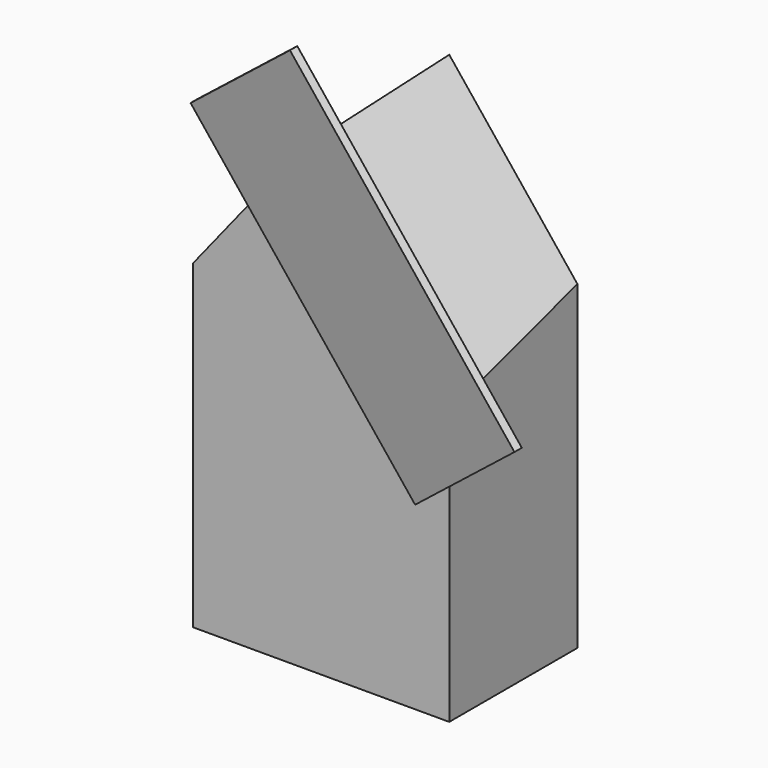
from build123d import *

# Parameters (mm, degrees)
F0_W     = 80
F0_H     = 50
F1_DEPTH = 150
F3_DEPTH = 50
F6_W     = 2.4683438241
F6_H     = 112.18418926
F7_DEPTH = 50
F8_DEPTH = 100


with BuildPart() as f1:
    # F0 (on Top) → F1 (new body)
    with BuildSketch(Plane.XY):
        Rectangle(F0_W, F0_H)
    extrude(amount=F1_DEPTH)

    # F2 (on face) → F3 (cut, through all)
    with BuildSketch(Plane.XZ.offset(25)):
        Polygon((-40, 150), (-40, 100), (0, 150), align=None)
    extrude(amount=-F3_DEPTH, mode=Mode.SUBTRACT)



with BuildPart() as f7:
    # F6 (on 3pt) → F7 (new body)
    with BuildSketch(Plane(origin=(67.1536286522, -16.1168708765, 53.7229029218), x_dir=(-0.1438373372, -0.9828884705, -0.1150698697), z_dir=(-0.7675069498, 0.184201668, -0.6140055598))):
        with Locations((29.5846741647, 82.1041800082)):
            Rectangle(F6_W, F6_H)
    extrude(amount=-F7_DEPTH)


with BuildPart() as f1_1:
    add(f1.part)
    # F8 (cut): a face of the model
    f8_faces = [f7.part.faces().sort_by_distance(p)[0] for p in [
        (30.9733670118, -48.5872943735, 129.9233466104),
    ]]
    extrude(f8_faces, amount=F8_DEPTH, mode=Mode.SUBTRACT)


solid = Compound([f7.part, f1_1.part])
